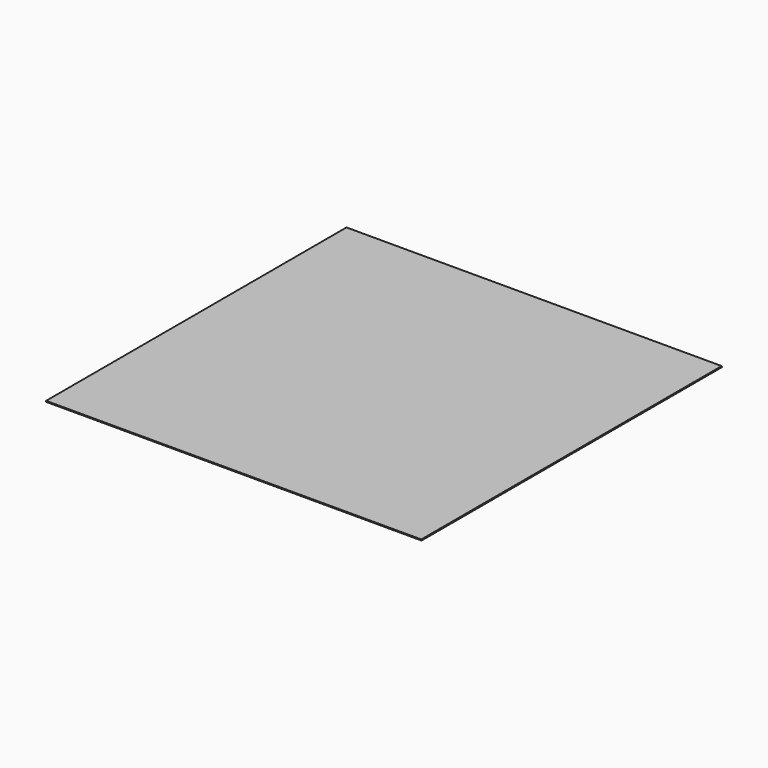
from build123d import *

# Parameters (mm, degrees)
F0_W     = 395
F0_H     = 395
F1_DEPTH = 1
F3_DEPTH = 10000


with BuildPart() as f1:
    # F0 (on Top) → F1 (new body)
    with BuildSketch(Plane.XY):
        Rectangle(F0_W, F0_H)
    extrude(amount=F1_DEPTH)

    # F2 (on face) → F3 (cut)
    with BuildSketch(Plane.XZ.offset(197.5)):
        Polygon((197.232051, 1), (197.5, 0), (197.5, 1), align=None)
    extrude(amount=-F3_DEPTH, mode=Mode.SUBTRACT)


solid = f1.part
